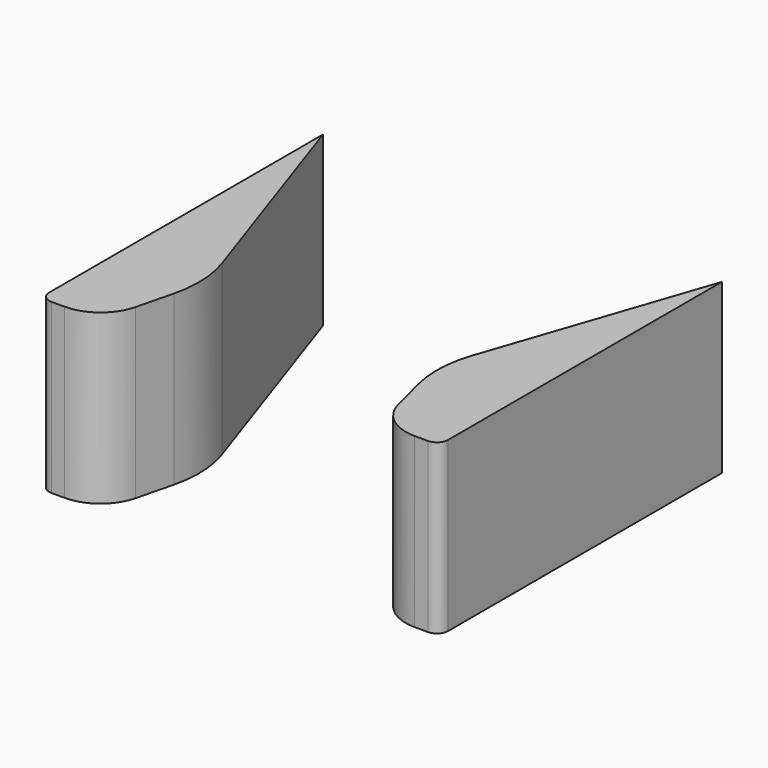
from build123d import *

# Parameters (mm, degrees)
F1_DEPTH = 38.1
F2_R     = 25.4
F3_R     = 10.16
F4_R     = 2.54
F5_R     = 25.4
F6_R     = 10.16
F7_R     = 2.54


with BuildPart() as f1:
    # F0 (on Top) → F1 (new body)
    with BuildSketch(Plane.XY):
        Polygon((-45.154162, 51.227525), (-45.154162, -28.782476), (-31.687129, -28.782476), (-25.877822, -5.545248), align=None)
        Polygon((45.154162, -28.782476), (45.154162, 51.227525), (25.877822, -5.545248), (31.687129, -28.782476), align=None)
    extrude(amount=-F1_DEPTH)

    # F2
    f2_edges = [f1.edges().sort_by_distance(p)[0] for p in [
        (25.877822, -5.545248, -19.05),
    ]]
    fillet(f2_edges, radius=F2_R)

    # F3
    f3_edges = [f1.edges().sort_by_distance(p)[0] for p in [
        (31.687129, -28.782476, -19.05),
    ]]
    fillet(f3_edges, radius=F3_R)

    # F4
    f4_edges = [f1.edges().sort_by_distance(p)[0] for p in [
        (45.154162, -28.782476, -19.05),
    ]]
    fillet(f4_edges, radius=F4_R)

    # F5
    f5_edges = [f1.edges().sort_by_distance(p)[0] for p in [
        (-25.877822, -5.545248, -19.05),
    ]]
    fillet(f5_edges, radius=F5_R)

    # F6
    f6_edges = [f1.edges().sort_by_distance(p)[0] for p in [
        (-31.687129, -28.782476, -19.05),
    ]]
    fillet(f6_edges, radius=F6_R)

    # F7
    f7_edges = [f1.edges().sort_by_distance(p)[0] for p in [
        (-45.154162, -28.782476, -19.05),
    ]]
    fillet(f7_edges, radius=F7_R)


solid = f1.part
